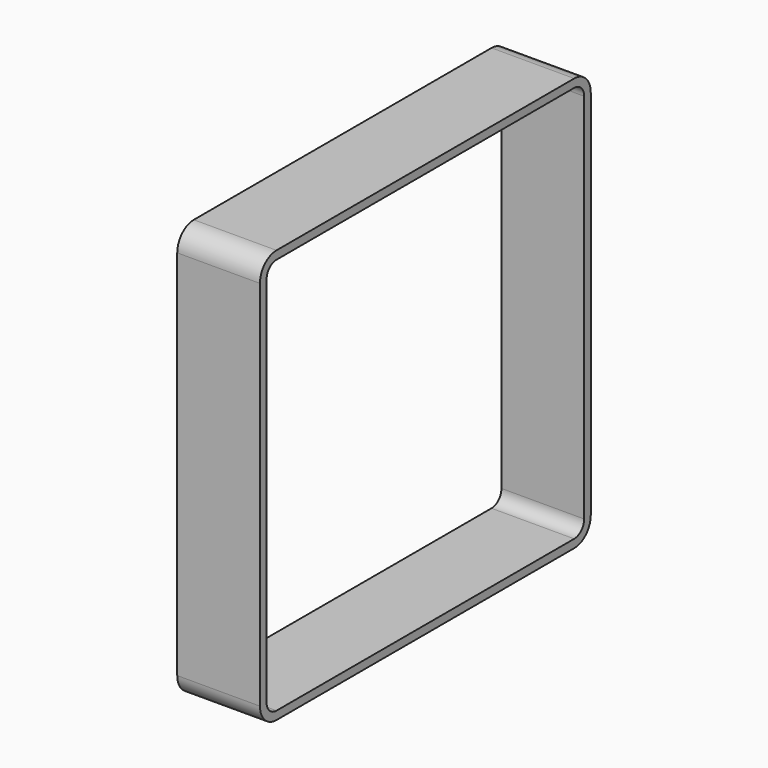
from build123d import *

# Parameters (mm, degrees)
PAD_DEPTH = 5


with BuildPart() as part:
    # Sketch → Pad (new body, symmetric)
    with BuildSketch(Plane.YZ):
        with BuildLine():
            ThreePointArc((-22.5, 25), (-24.267767, 24.267767), (-25, 22.5))
            Line((-25, -22.5), (-25, 22.5))
            ThreePointArc((-25, -22.5), (-24.267767, -24.267767), (-22.5, -25))
            Line((22.5, -25), (-22.5, -25))
            ThreePointArc((22.5, -25), (24.267767, -24.267767), (25, -22.5))
            Line((25, 22.5), (25, -22.5))
            ThreePointArc((25, 22.5), (24.267767, 24.267767), (22.5, 25))
            Line((-22.5, 25), (22.5, 25))
        make_face()
        with BuildLine():
            ThreePointArc((-22.5, 24), (-23.56066, 23.56066), (-24, 22.5))
            Line((-24, -22.5), (-24, 22.5))
            ThreePointArc((-24, -22.5), (-23.56066, -23.56066), (-22.5, -24))
            Line((22.5, -24), (-22.5, -24))
            ThreePointArc((22.5, -24), (23.56066, -23.56066), (24, -22.5))
            Line((24, 22.5), (24, -22.5))
            ThreePointArc((24, 22.5), (23.56066, 23.56066), (22.5, 24))
            Line((-22.5, 24), (22.5, 24))
        make_face(mode=Mode.SUBTRACT)
    extrude(amount=PAD_DEPTH, both=True)


solid = part.part
